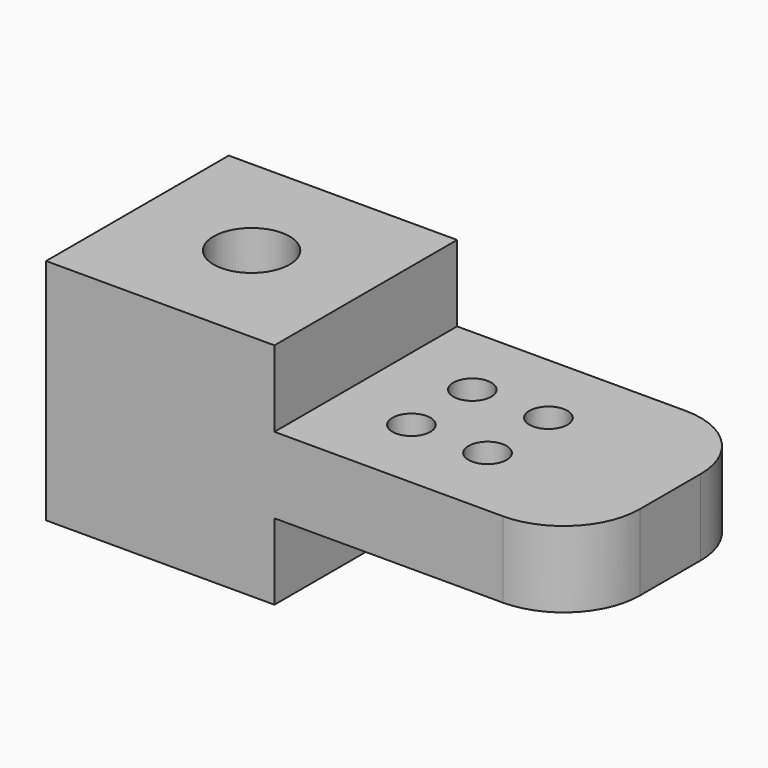
from build123d import *

# Parameters (mm, degrees)
F1_DEPTH = 38.1
F3_D     = 6.35
F5_D     = 12.7
F6_R     = 12.7


with BuildPart() as f1:
    # F0 (on Front) → F1 (new body)
    with BuildSketch(Plane.XZ):
        Polygon((0, 38.1), (0, 0), (38.1, 0), (38.1, 12.7), (88.9, 12.7), (88.9, 25.4), (38.1, 25.4), (38.1, 38.1), align=None)
    extrude(amount=-F1_DEPTH)

    # F3 (through all)
    with Locations(Plane.XY.offset(25.4)):
        with Locations((50.8, 25.4), (50.8, 12.7), (63.5, 12.7), (63.5, 25.4)):
            Hole(F3_D / 2)

    # F5 (through all)
    with Locations(Plane.XY.offset(38.1)):
        with Locations((19.05, 19.05)):
            Hole(F5_D / 2)

    # F6
    f6_edges = [f1.edges().sort_by_distance(p)[0] for p in [
        (88.9, 0, 19.05),
        (88.9, 38.1, 19.05),
    ]]
    fillet(f6_edges, radius=F6_R)


solid = f1.part
